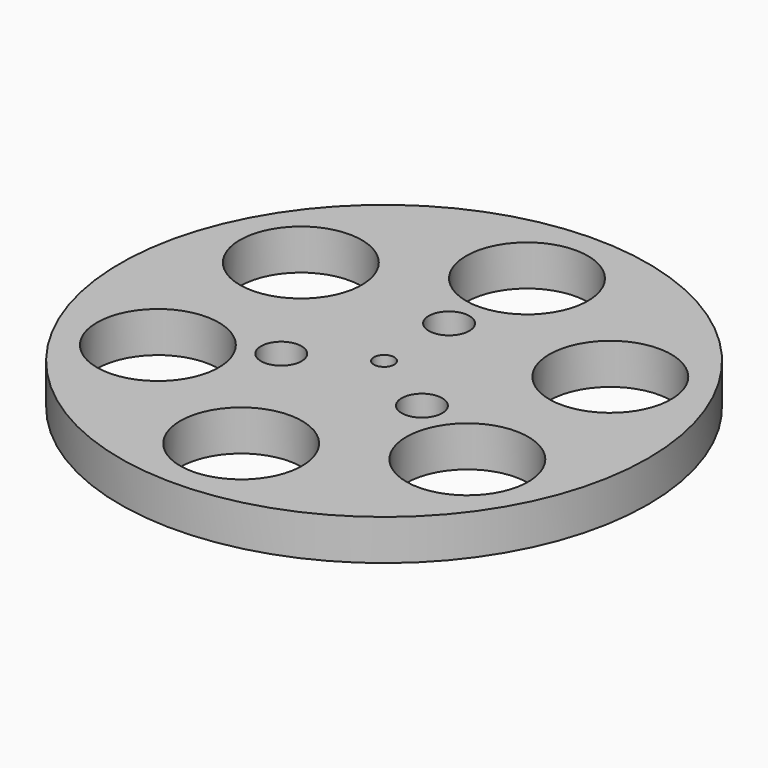
from build123d import *

# Parameters (mm, degrees)
F0_R     = 32.5
F1_DEPTH = 5
F2_D     = 15
F3_D     = 5
F4_D     = 2.5
F4_DEPTH = 10
F4_TIP   = 0.7510757738


with BuildPart() as f1:
    # F0 (on Top) → F1 (new body)
    with BuildSketch(Plane.XY):
        Circle(F0_R)
    extrude(amount=F1_DEPTH)

    # F2 (through all)
    with Locations(Plane(origin=(0, 0, 0), x_dir=(1, 0, 0), z_dir=(0, 0, -1))):
        with Locations((19.0525588833, -11), (0, -22), (-19.0525588833, -11), (-19.0525588833, 11), (0, 22), (19.0525588833, 11)):
            Hole(F2_D / 2)

    # F3 (through all)
    with Locations(Plane(origin=(0, 0, 0), x_dir=(1, 0, 0), z_dir=(0, 0, -1))):
        with Locations((-8.6602540378, 5), (0, -10), (8.6602540378, 5)):
            Hole(F3_D / 2)

    # F4
    with Locations(Plane(origin=(0, 0, 0), x_dir=(1, 0, 0), z_dir=(0, 0, -1))):
        with Locations((0, 0)):
            Hole(F4_D / 2, depth=F4_DEPTH)
            with Locations((0, 0, -(F4_DEPTH + F4_TIP / 2))):  # 118° drill point
                Cone(0, F4_D / 2, F4_TIP, mode=Mode.SUBTRACT)


solid = f1.part
